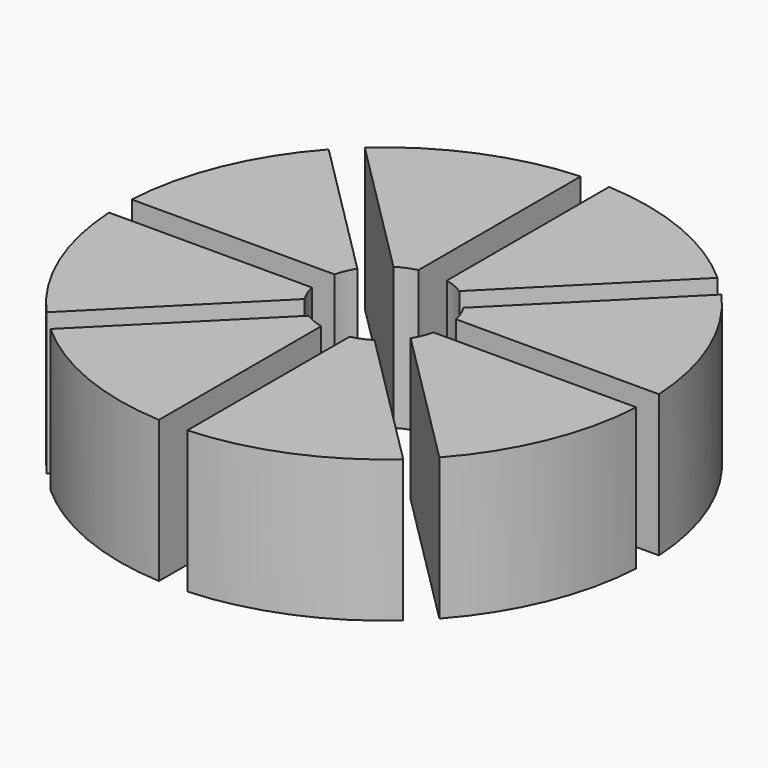
from build123d import *

# Parameters (mm, degrees)
F1_DEPTH = 25


with BuildPart() as f1:
    # F0 (on Top) → F1 (new body)
    with BuildSketch(Plane.XY):
        with BuildLine():
            Line((-9.3423956567, 5.8068617508), (-34.6006772717, 31.0651433658))
            ThreePointArc((-34.6006772717, 31.0651433658), (-42.9603982618, 17.794779605), (-46.432747065, 2.5))
            Line((-46.432747065, 2.5), (-10.7121426428, 2.5))
            ThreePointArc((-10.7121426428, 2.5), (-10.1626748576, 4.209517756), (-9.3423956567, 5.8068617508))
        make_face()
    extrude(amount=F1_DEPTH)


with BuildPart() as f1b:
    # F0 (on Top) → F1, piece 2 (new body)
    with BuildSketch(Plane.XY):
        with BuildLine():
            Line((-2.5, 10.7121426428), (-2.5, 46.432747065))
            ThreePointArc((-2.5, 46.432747065), (-17.794779605, 42.9603982618), (-31.0651433658, 34.6006772717))
            Line((-31.0651433658, 34.6006772717), (-5.8068617508, 9.3423956567))
            ThreePointArc((-5.8068617508, 9.3423956567), (-4.209517756, 10.1626748576), (-2.5, 10.7121426428))
        make_face()
    extrude(amount=F1_DEPTH)


with BuildPart() as f1c:
    # F0 (on Top) → F1, piece 3 (new body)
    with BuildSketch(Plane.XY):
        with BuildLine():
            Line((5.8068617508, 9.3423956567), (31.0651433658, 34.6006772717))
            ThreePointArc((31.0651433658, 34.6006772717), (17.794779605, 42.9603982618), (2.5, 46.432747065))
            Line((2.5, 46.432747065), (2.5, 10.7121426428))
            ThreePointArc((2.5, 10.7121426428), (4.209517756, 10.1626748576), (5.8068617508, 9.3423956567))
        make_face()
    extrude(amount=F1_DEPTH)


with BuildPart() as f1d:
    # F0 (on Top) → F1, piece 4 (new body)
    with BuildSketch(Plane.XY):
        with BuildLine():
            Line((10.7121426428, 2.5), (46.432747065, 2.5))
            ThreePointArc((46.432747065, 2.5), (42.9603982618, 17.794779605), (34.6006772717, 31.0651433658))
            Line((34.6006772717, 31.0651433658), (9.3423956567, 5.8068617508))
            ThreePointArc((9.3423956567, 5.8068617508), (10.1626748576, 4.209517756), (10.7121426428, 2.5))
        make_face()
    extrude(amount=F1_DEPTH)


with BuildPart() as f1e:
    # F0 (on Top) → F1, piece 5 (new body)
    with BuildSketch(Plane.XY):
        with BuildLine():
            ThreePointArc((34.6006772717, -31.0651433658), (42.9603982618, -17.794779605), (46.432747065, -2.5))
            Line((46.432747065, -2.5), (10.7121426428, -2.5))
            ThreePointArc((10.7121426428, -2.5), (10.1626748576, -4.209517756), (9.3423956567, -5.8068617508))
            Line((9.3423956567, -5.8068617508), (34.6006772717, -31.0651433658))
        make_face()
    extrude(amount=F1_DEPTH)


with BuildPart() as f1f:
    # F0 (on Top) → F1, piece 6 (new body)
    with BuildSketch(Plane.XY):
        with BuildLine():
            ThreePointArc((2.5, -46.432747065), (17.794779605, -42.9603982618), (31.0651433658, -34.6006772717))
            Line((31.0651433658, -34.6006772717), (5.8068617508, -9.3423956567))
            ThreePointArc((5.8068617508, -9.3423956567), (4.209517756, -10.1626748576), (2.5, -10.7121426428))
            Line((2.5, -10.7121426428), (2.5, -46.432747065))
        make_face()
    extrude(amount=F1_DEPTH)


with BuildPart() as f1g:
    # F0 (on Top) → F1, piece 7 (new body)
    with BuildSketch(Plane.XY):
        with BuildLine():
            ThreePointArc((-31.0651433658, -34.6006772717), (-17.794779605, -42.9603982618), (-2.5, -46.432747065))
            Line((-2.5, -46.432747065), (-2.5, -10.7121426428))
            ThreePointArc((-2.5, -10.7121426428), (-4.209517756, -10.1626748576), (-5.8068617508, -9.3423956567))
            Line((-5.8068617508, -9.3423956567), (-31.0651433658, -34.6006772717))
        make_face()
    extrude(amount=F1_DEPTH)


with BuildPart() as f1h:
    # F0 (on Top) → F1, piece 8 (new body)
    with BuildSketch(Plane.XY):
        with BuildLine():
            ThreePointArc((-46.432747065, -2.5), (-42.9603982618, -17.794779605), (-34.6006772717, -31.0651433658))
            Line((-34.6006772717, -31.0651433658), (-9.3423956567, -5.8068617508))
            ThreePointArc((-9.3423956567, -5.8068617508), (-10.1626748576, -4.209517756), (-10.7121426428, -2.5))
            Line((-10.7121426428, -2.5), (-46.432747065, -2.5))
        make_face()
    extrude(amount=F1_DEPTH)


solid = Compound([f1.part, f1b.part, f1c.part, f1d.part, f1e.part, f1f.part, f1g.part, f1h.part])
